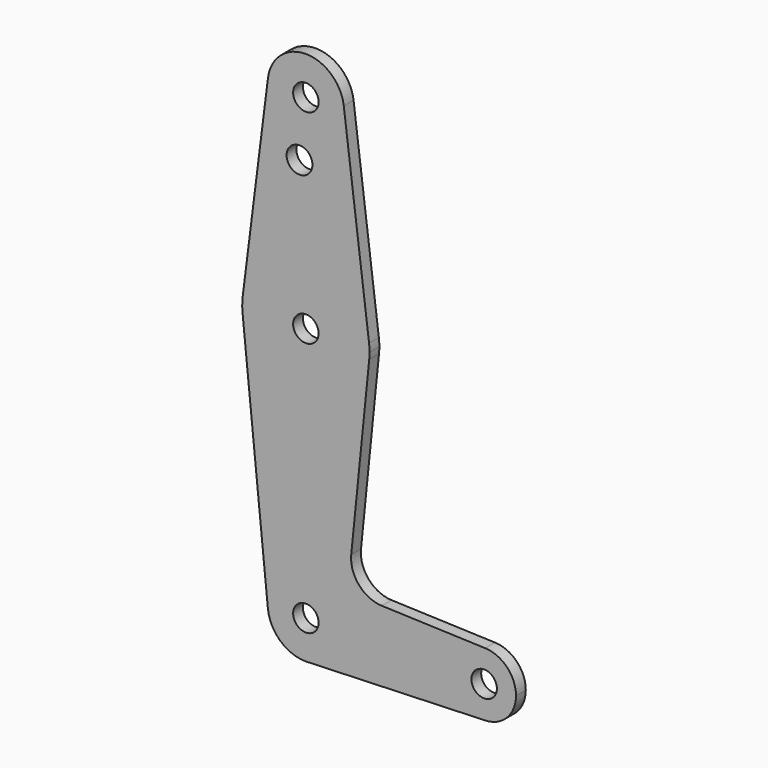
from build123d import *

# Parameters (mm, degrees)
F0_R     = 3.175
F0_R_2   = 3.223076
F1_DEPTH = 3.048


with BuildPart() as f1:
    # F0 (on Front) → F1 (new body)
    with BuildSketch(Plane.XZ):
        with BuildLine():
            ThreePointArc((0.677344, -9.500886), (6.970557, -6.491299), (9.525, 0))
            ThreePointArc((9.525, 0), (-0.476848, 9.513056), (-9.477255, -0.9525))
            ThreePointArc((-9.477255, -0.9525), (-6.389564, -7.063929), (0, -9.525))
            Line((0, -9.525), (0.677344, -9.500886))
        make_face()
        Circle(F0_R, mode=Mode.SUBTRACT)
        with BuildLine():
            ThreePointArc((-9.477255, -0.9525), (-0.476848, 9.513056), (9.525, 0))
            ThreePointArc((9.525, 0), (6.970557, -6.491299), (0.677344, -9.500886))
            Line((0.677344, -9.500886), (44.732405, -7.932475))
            ThreePointArc((44.732405, -7.932475), (36.5125, 0.000539), (44.733482, 7.932436))
            Line((44.733482, 7.932436), (18.933378, 8.854457))
            ThreePointArc((18.933378, 8.854457), (13.224973, 11.574881), (11.307577, 17.600674))
            Line((11.307577, 17.600674), (15.794203, 61.90038))
            ThreePointArc((15.794203, 61.90038), (-0.006091, 47.625001), (-15.795426, 61.9125))
            Line((-15.795426, 61.9125), (-9.477255, -0.9525))
        make_face()
        with BuildLine():
            ThreePointArc((0, -9.525), (0.338886, -9.51897), (0.677344, -9.500886))
            Line((0.677344, -9.500886), (0, -9.525))
        make_face()
        with BuildLine():
            ThreePointArc((-15.750488, 65.484375), (-15.873744, 63.699705), (-15.795426, 61.9125))
            ThreePointArc((-15.795426, 61.9125), (-0.006091, 47.625001), (15.794203, 61.90038))
            ThreePointArc((15.794203, 61.90038), (15.854788, 62.699171), (15.875, 63.5))
            ThreePointArc((15.875, 63.5), (15.843841, 64.494139), (15.750488, 65.484375))
            ThreePointArc((15.750488, 65.484375), (0, 79.375), (-15.750488, 65.484375))
        make_face()
        with Locations((0, 63.5)):
            Circle(F0_R, mode=Mode.SUBTRACT)
        with BuildLine():
            ThreePointArc((44.733482, 7.932436), (36.5125, 0.000539), (44.732405, -7.932475))
            ThreePointArc((44.732405, -7.932475), (50.161633, -5.51191), (52.3875, 0))
            ThreePointArc((52.3875, 0), (50.162007, 5.511523), (44.733482, 7.932436))
        make_face()
        with Locations((44.45, 0)):
            Circle(F0_R, mode=Mode.SUBTRACT)
        with BuildLine():
            Line((-9.450293, 115.490625), (-15.750488, 65.484375))
            ThreePointArc((-15.750488, 65.484375), (0, 79.375), (15.750488, 65.484375))
            Line((15.750488, 65.484375), (9.450293, 115.490625))
            ThreePointArc((9.450293, 115.490625), (9.506305, 114.896483), (9.525, 114.3))
            ThreePointArc((9.525, 114.3), (-0.596483, 104.793695), (-9.450293, 115.490625))
        make_face()
        with Locations((-1.5875, 100.0252)):
            Circle(F0_R_2, mode=Mode.SUBTRACT)
        with BuildLine():
            ThreePointArc((9.450293, 115.490625), (0, 123.825), (-9.450293, 115.490625))
            ThreePointArc((-9.450293, 115.490625), (-0.596483, 104.793695), (9.525, 114.3))
            ThreePointArc((9.525, 114.3), (9.506305, 114.896483), (9.450293, 115.490625))
        make_face()
        with Locations((0, 114.3)):
            Circle(F0_R, mode=Mode.SUBTRACT)
    extrude(amount=F1_DEPTH)


solid = f1.part
